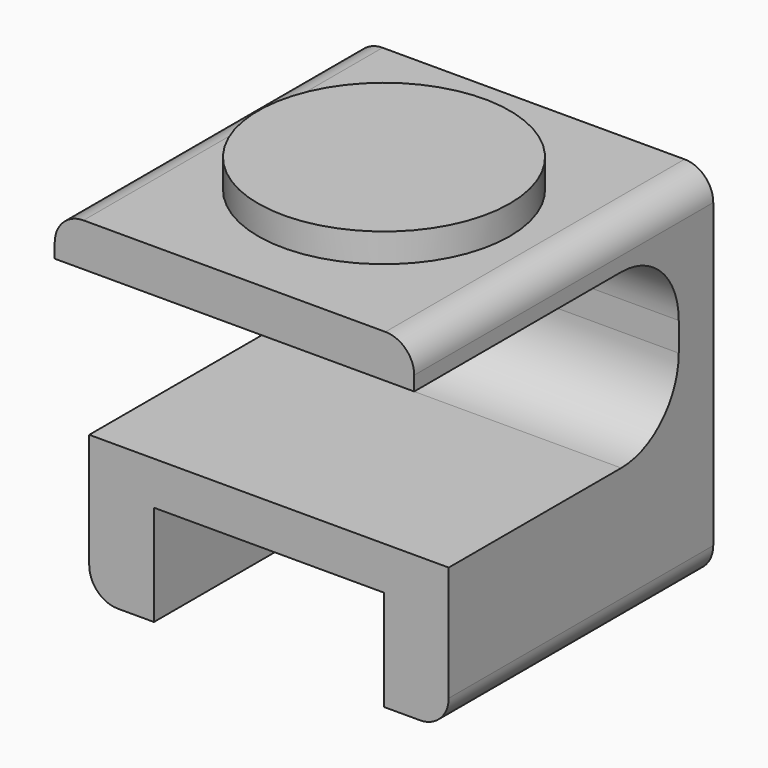
from build123d import *

# Parameters (mm, degrees)
F1_DEPTH = 3
F0_W     = 4.5
F0_H     = 7
F2_DEPTH = 23
F0_W_2   = 25
F0_H_2   = 3
F3_DEPTH = 26
F4_R     = 8.75
F5_DEPTH = 2
F6_R     = 2
F7_W     = 25
F7_H     = 3
F8_DEPTH = 20
F9_R     = 5


with BuildPart() as f1:
    # F0 (on Front) → F1 (new body)
    with BuildSketch(Plane.XZ):
        Polygon((4.5, 7), (4.5, 0), (20.5, 0), (20.5, 7), (25, 7), (25, 22), (0, 22), (0, 7), align=None)
    extrude(amount=F1_DEPTH)

    # F0 (on Front) → F2 (join)
    with BuildSketch(Plane.XZ):
        with Locations((2.25, 3.5)):
            Rectangle(F0_W, F0_H)
        with Locations((22.75, 3.5)):
            Rectangle(F0_W, F0_H)
    extrude(amount=F2_DEPTH)

    # F0 (on Front) → F3 (join)
    with BuildSketch(Plane.XZ):
        with Locations((12.5, 23.5)):
            Rectangle(F0_W_2, F0_H_2)
    extrude(amount=F3_DEPTH)

    # F4 (on face) → F5 (join)
    with BuildSketch(Plane.XY.offset(25)):
        with Locations((12.5, -13)):
            Circle(F4_R)
    extrude(amount=F5_DEPTH)

    # F6
    f6_edges = [f1.edges().sort_by_distance(p)[0] for p in [
        (0, -13, 25),
        (25, -13, 25),
        (0, -11.5, 0),
        (25, -11.5, 0),
    ]]
    fillet(f6_edges, radius=F6_R)

    # F7 (on face) → F8 (join, through all)
    with BuildSketch(Plane.XZ.offset(23)):
        with Locations((12.5, 8.5)):
            Rectangle(F7_W, F7_H)
    extrude(amount=-F8_DEPTH)

    # F9
    f9_edges = [f1.edges().sort_by_distance(p)[0] for p in [
        (12.5, -3, 10),
        (12.5, -3, 22),
    ]]
    fillet(f9_edges, radius=F9_R)


solid = f1.part
